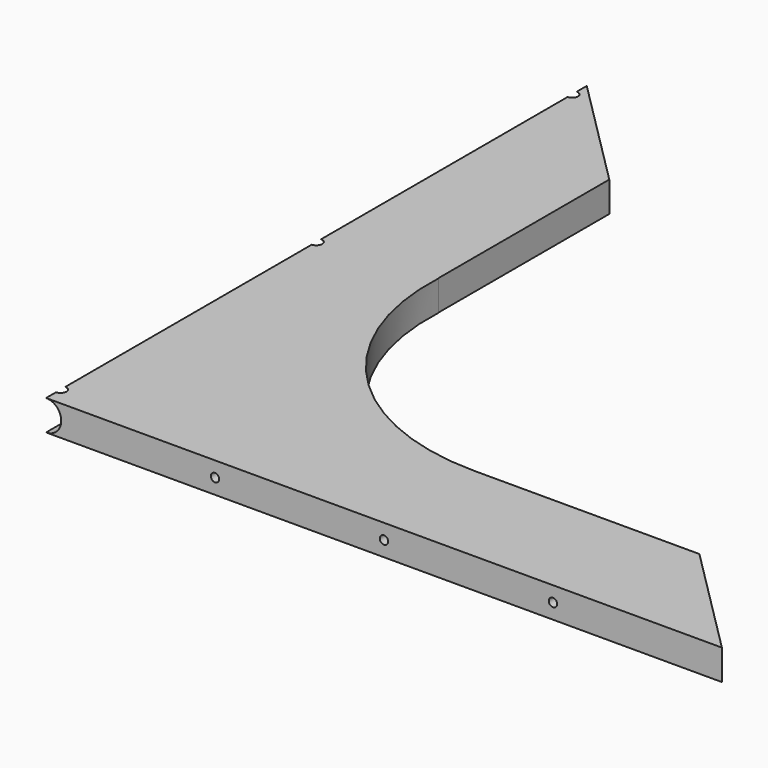
from build123d import *

# Parameters (mm, degrees)
PAD_DEPTH              = 13.4
CYLINDER_W             = 6.7
CYLINDER_H             = 298.45
CYLINDER_ANGLE         = 180
CYLINDER001_R          = 99.483333
CYLINDER001_DEPTH      = 32
BOX_W                  = 149.225
BOX_H                  = 30
BOX_DEPTH              = 21
BOX001_W               = 33
BOX001_H               = 149.225
BOX001_DEPTH           = 22
CYLINDER002_R          = 3.7
CYLINDER002_DEPTH      = 105
LINEARPATTERN_COUNT    = 3
LINEARPATTERN_PITCH    = 74.6125
CYLINDER003_R          = 1.85
CYLINDER003_DEPTH      = 100
LINEARPATTERN001_COUNT = 3
LINEARPATTERN001_PITCH = 74.6125
CYLINDER004_R          = 2.55
CYLINDER004_DEPTH      = 10
LINEARPATTERN002_COUNT = 3
LINEARPATTERN002_PITCH = 141.16875


with BuildPart() as part:
    # Sketch → Pad (new body)
    with BuildSketch(Plane.XY):
        Polygon((0, 0), (298.45, 0), (0, 298.45), align=None)
    extrude(amount=PAD_DEPTH)

    # Cylinder → Cylinder (revolve, cut)
    with BuildSketch(Plane(origin=(0, 0, 6.7), x_dir=(0, 0, 1), z_dir=(-1, 0, 0))):
        with Locations((3.35, 149.225)):
            Rectangle(CYLINDER_W, CYLINDER_H)
    revolve(axis=Axis((0, 0, 6.7), (0, 1, 0)), revolution_arc=CYLINDER_ANGLE, mode=Mode.SUBTRACT)

    # Cylinder001 → Cylinder001 (cut)
    with BuildSketch(Plane(origin=(149.225, 149.225, -8), x_dir=(1, 0, 0), z_dir=(0, 0, 1))):
        Circle(CYLINDER001_R)
    extrude(amount=CYLINDER001_DEPTH, mode=Mode.SUBTRACT)

    # Box → Box (cut)
    with BuildSketch(Plane(origin=(149.225, 79.741667, 17), x_dir=(1, 0, 0), z_dir=(0, 0, -1))):
        with Locations((74.6125, 15)):
            Rectangle(BOX_W, BOX_H)
    extrude(amount=BOX_DEPTH, mode=Mode.SUBTRACT)

    # Box001 → Box001 (cut)
    with BuildSketch(Plane(origin=(49.741667, 303.579167, 17), x_dir=(1, 0, 0), z_dir=(0, 0, -1))):
        with Locations((16.5, 74.6125)):
            Rectangle(BOX001_W, BOX001_H)
    extrude(amount=BOX001_DEPTH, mode=Mode.SUBTRACT)

    # Cylinder002 → Cylinder002 (cut)
    with BuildSketch(Plane(origin=(74.6125, 5, 6.7), x_dir=(-1, 0, 0), z_dir=(0, 1, 0))):
        Circle(CYLINDER002_R)
    cylinder002 = extrude(amount=CYLINDER002_DEPTH, mode=Mode.SUBTRACT)

    # LinearPattern: Cylinder002 ×3
    with Locations(*[(i * LINEARPATTERN_PITCH, 0, 0) for i in range(1, LINEARPATTERN_COUNT)]):
        add(cylinder002, mode=Mode.SUBTRACT)

    # Cylinder003 → Cylinder003 (cut)
    with BuildSketch(Plane(origin=(74.6125, 0, 6.7), x_dir=(-1, 0, 0), z_dir=(0, 1, 0))):
        Circle(CYLINDER003_R)
    cylinder003 = extrude(amount=CYLINDER003_DEPTH, mode=Mode.SUBTRACT)

    # LinearPattern001: Cylinder003 ×3
    with Locations(*[(i * LINEARPATTERN001_PITCH, 0, 0) for i in range(1, LINEARPATTERN001_COUNT)]):
        add(cylinder003, mode=Mode.SUBTRACT)

    # Cylinder004 → Cylinder004 (cut)
    with BuildSketch(Plane(origin=(0, 8.05625, 5), x_dir=(1, 0, 0), z_dir=(0, 0, 1))):
        Circle(CYLINDER004_R)
    cylinder004 = extrude(amount=CYLINDER004_DEPTH, mode=Mode.SUBTRACT)

    # LinearPattern002: Cylinder004 ×3
    with Locations(*[(0, i * LINEARPATTERN002_PITCH, 0) for i in range(1, LINEARPATTERN002_COUNT)]):
        add(cylinder004, mode=Mode.SUBTRACT)


solid = part.part
